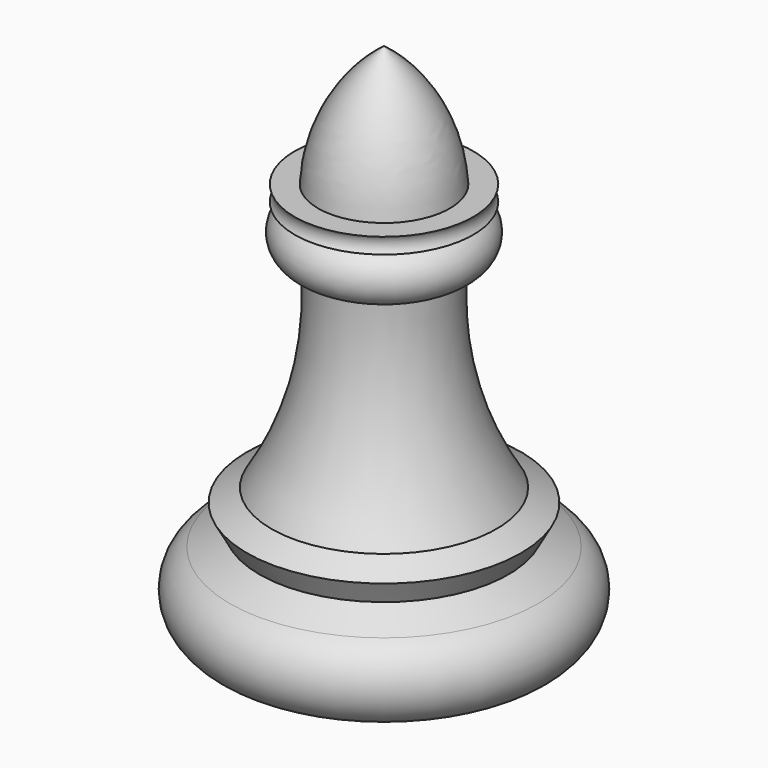
from build123d import *


with BuildPart() as f1:
    # F0 (on Front) → F1 (revolve)
    with BuildSketch(Plane.XZ):
        with BuildLine():
            Line((-16.567728, 11.988031), (-20.489847, 9.840203))
            ThreePointArc((-20.489847, 9.840203), (-23.40504, 4.920101), (-20.489847, 0))
            Line((-20.489847, 0), (0, 0))
            Line((0, 0), (0, 62.165495))
            Line((0, 62.165495), (0, 68.488896))
            ThreePointArc((0, 68.488896), (-6.208841, 61.398792), (-8.766658, 52.328133))
            Line((-8.766658, 52.328133), (-11.872639, 52.328133))
            ThreePointArc((-11.872639, 52.328133), (-11.543236, 51.285051), (-11.872639, 50.24197))
            Line((-11.872639, 50.24197), (-8.766658, 50.24197))
            ThreePointArc((-8.766658, 50.24197), (-12.268779, 46.739848), (-8.766658, 43.237727))
            ThreePointArc((-8.766658, 43.237727), (-9.670172, 29.504417), (-14.978621, 16.806365))
            Line((-14.978621, 16.806365), (-18.230995, 15.025302))
            Line((-18.230995, 15.025302), (-16.567728, 11.988031))
        make_face()
    revolve(axis=Axis((0, 0, 31.082748), (0, 0, -1)))


solid = f1.part
